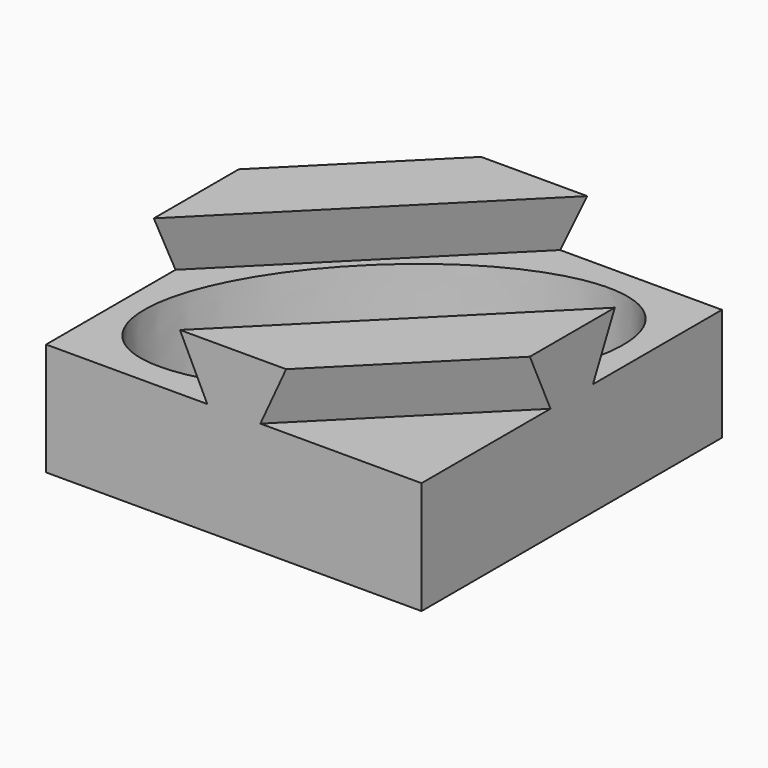
from build123d import *

# Parameters (mm, degrees)
F1_DEPTH = 30
F8_DEPTH = 25


with BuildPart() as f1:
    # F0 (on Top) → F1 (new body)
    with BuildSketch(Plane.XY):
        Polygon((-7.231055, 50), (-50, 50), (-50, 7.231055), align=None)
        Polygon((50, -50), (50, -7.071068), (7.071068, -50), align=None)
        Polygon((50, 50), (6.91108, 50), (-46.624454, -3.535534), (-50, -6.91108), (-50, -50), (-7.071068, -50), (46.464466, 3.535534), (50, 7.071068), align=None)
        Polygon((6.91108, 50), (-7.231055, 50), (-50, 7.231055), (-50, -6.91108), (-46.624454, -3.535534), align=None)
        Polygon((50, -7.071068), (50, 7.071068), (46.464466, 3.535534), (-7.071068, -50), (7.071068, -50), align=None)
    extrude(amount=F1_DEPTH)

    # F3 (on offset) → F6 section 0
    with BuildSketch(Plane.XY.offset(30)):
        Polygon((-50, -6.911185), (6.911185, 50), (-7.23095, 50), (-50, 7.23095), align=None)
    # F5 (on offset) → F6 section 1
    with BuildSketch(Plane.XY.offset(45)):
        Polygon((14.142166, 50), (-14.142105, 50), (-50, 14.142105), (-50, -14.142166), align=None)
    loft()

    # F3 (on offset) → F7 section 0
    with BuildSketch(Plane.XY.offset(30)):
        Polygon((-7.070837, -50), (7.071298, -50), (50, -7.071298), (50, 7.070837), align=None)
    # F5 (on offset) → F7 section 1
    with BuildSketch(Plane.XY.offset(45)):
        Polygon((50, -13.942345), (50, 14.341926), (-14.341926, -50), (13.942345, -50), align=None)
    loft()

    # F3 (on offset) → F8 (cut)
    with BuildSketch(Plane.XY.offset(30)):
        with BuildLine():
            add(Edge.make_bspline(
                [(39.216664, 37.989728), (5.291793, 73.010254), (-36.570767, -1.484601), (-78.433327, -75.979456), (-2.645896, -36.505127), (73.141535, 2.969202), (39.216664, 37.989728)],
                knots=[0, 0, 0, 2.094395, 2.094395, 4.18879, 4.18879, 6.283185, 6.283185, 6.283185], degree=2, weights=[1, 0.5, 1, 0.5, 1, 0.5, 1]))
        make_face()
    extrude(amount=-F8_DEPTH, mode=Mode.SUBTRACT)


solid = f1.part
